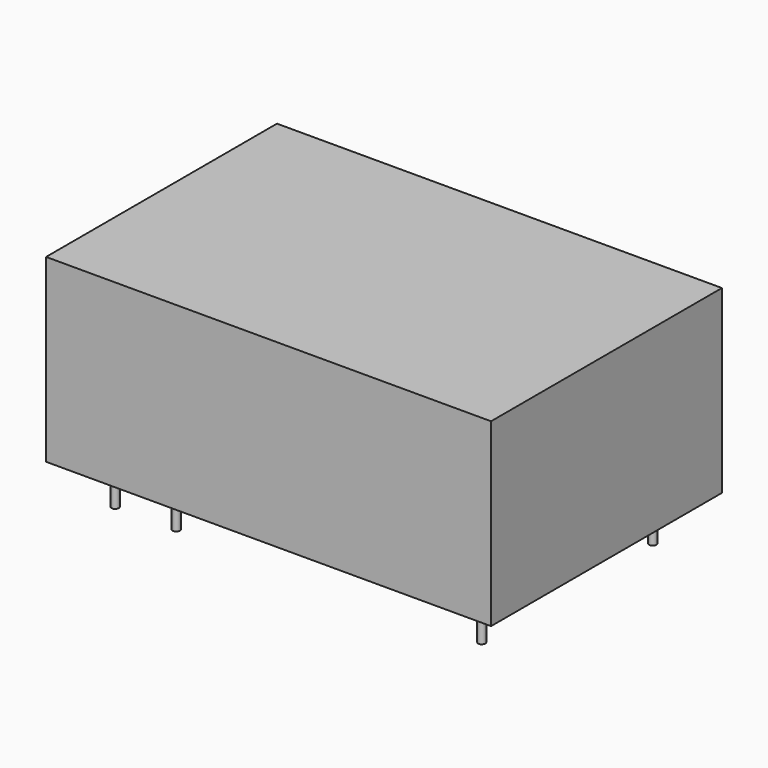
from build123d import *

# Parameters (mm, degrees)
F0_W     = 37
F0_H     = 24
F0_R     = 0.3
F1_DEPTH = 15
F2_DEPTH = 18.5
F3_ANGLE = 180


with BuildPart() as f1:
    # F0 (on Top) → F1 (new body)
    with BuildSketch(Plane.XY):
        Rectangle(F0_W, F0_H)
        with Locations((10.16, -8.89)):
            Circle(F0_R, mode=Mode.SUBTRACT)
        with Locations((15.24, -8.89)):
            Circle(F0_R, mode=Mode.SUBTRACT)
        with Locations((-15.24, 8.89)):
            Circle(F0_R, mode=Mode.SUBTRACT)
        with Locations((-10.16, 8.89)):
            Circle(F0_R, mode=Mode.SUBTRACT)
        with Locations((15.24, 8.89)):
            Circle(F0_R, mode=Mode.SUBTRACT)
    extrude(amount=F1_DEPTH)

    # F0 (on Top) → F2 (join)
    with BuildSketch(Plane.XY):
        with Locations((15.24, 8.89)):
            Circle(F0_R)
        with Locations((-10.16, 8.89)):
            Circle(F0_R)
        with Locations((-15.24, 8.89)):
            Circle(F0_R)
        with Locations((15.24, -8.89)):
            Circle(F0_R)
        with Locations((10.16, -8.89)):
            Circle(F0_R)
    extrude(amount=F2_DEPTH)


with BuildPart() as f1_1:
    # F3: moved
    add(f1.part.rotate(Axis((0, -12, 15), (1, 0, 0)), F3_ANGLE))


solid = f1_1.part
